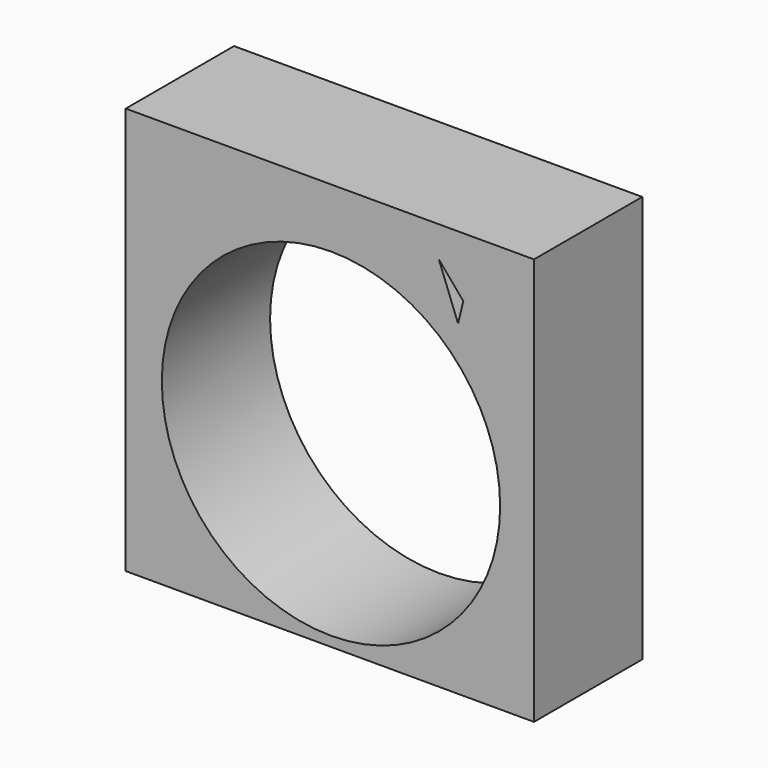
from build123d import *

# Parameters (mm, degrees)
F0_W     = 76.628029
F0_H     = 76.429892
F1_DEPTH = 25.4
F2_R     = 31.75
F3_DEPTH = 25.401
F5_DEPTH = 25.4


with BuildPart() as f1:
    # F0 (on Front) → F1 (new body)
    with BuildSketch(Plane.XZ):
        with Locations((38.314014, 38.214946)):
            Rectangle(F0_W, F0_H)
    extrude(amount=F1_DEPTH)

    # F2 (on face) → F3 (cut, through all)
    with BuildSketch(Plane.XZ.offset(25.4)):
        with Locations((38.524082, 33.596565)):
            Circle(F2_R)
    extrude(amount=-F3_DEPTH, mode=Mode.SUBTRACT)

    # F4 (on face) → F5 (cut)
    with BuildSketch(Plane.XZ.offset(25.4)):
        Polygon((63.356534, 65.209933), (58.767688, 70.649475), (62.377501, 61.178781), align=None)
    extrude(amount=-F5_DEPTH, mode=Mode.SUBTRACT)


solid = f1.part
